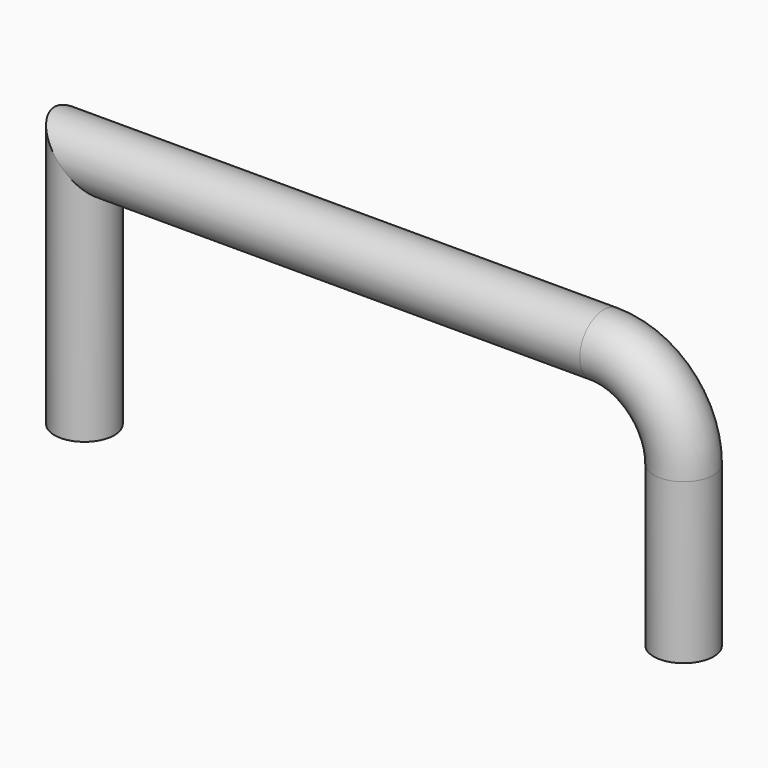
from build123d import *

# Parameters (mm, degrees)
F1_R = 7.5


with BuildPart() as f2:
    # F2: sweep along a path in F0
    with BuildLine(Plane.XZ) as f2_path:
        Line((-75, 0), (-75, 60))
        Line((-75, 60), (55, 60))
        ThreePointArc((55, 60), (69.1421356237, 54.1421356237), (75, 40))
        Line((75, 40), (75, 0))
    # F1 (on Top) → F2 (sweep)
    with BuildSketch(Plane.XY):
        with Locations((75, 0)):
            Circle(F1_R)
    sweep(path=f2_path.line, transition=Transition.RIGHT)


solid = f2.part
